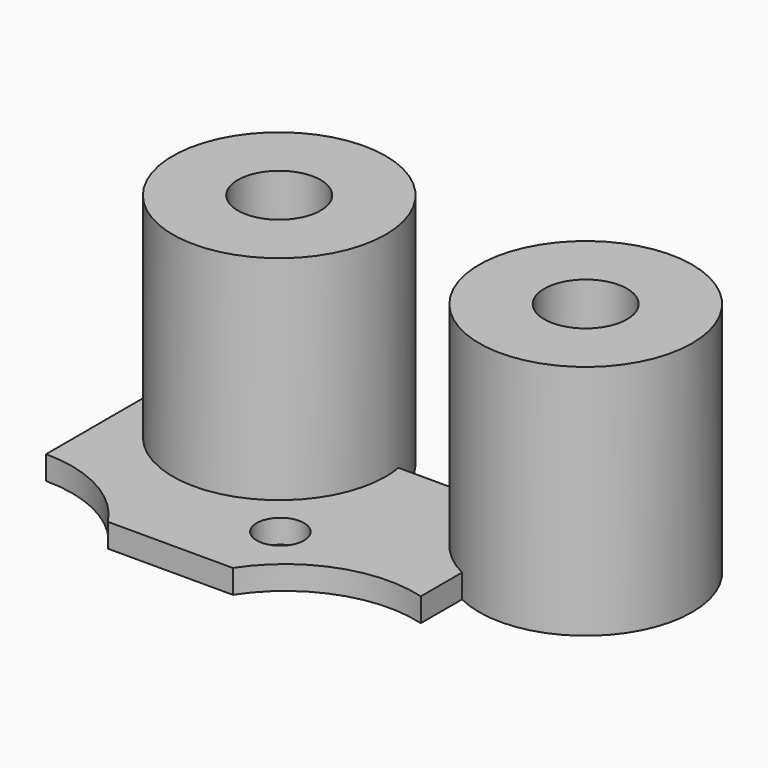
from build123d import *

# Parameters (mm, degrees)
CYLINDER010_R     = 1
CYLINDER010_DEPTH = 10
CYLINDER016_R     = 5.5
CYLINDER016_DEPTH = 10
CYLINDER012_R     = 1.75
CYLINDER012_DEPTH = 10
CYLINDER013_R     = 1.75
CYLINDER013_DEPTH = 10
CYLINDER014_R     = 5.5
CYLINDER014_DEPTH = 10
CYLINDER015_R     = 4.5
CYLINDER015_DEPTH = 10
CYLINDER011_R     = 4.5
CYLINDER011_DEPTH = 10
BOX001_W          = 16
BOX001_H          = 9
BOX001_DEPTH      = 1


with BuildPart() as cylinder010:
    # Cylinder010 → Cylinder010 (new body)
    with BuildSketch(Plane(origin=(9, 6, 0), x_dir=(1, 0, 0), z_dir=(0, 0, 1))):
        Circle(CYLINDER010_R)
    extrude(amount=CYLINDER010_DEPTH)


with BuildPart() as cylinder016:
    # Cylinder016 → Cylinder016 (new body)
    with BuildSketch(Plane(origin=(14, 0, 0), x_dir=(1, 0, 0), z_dir=(0, 0, 1))):
        Circle(CYLINDER016_R)
    extrude(amount=CYLINDER016_DEPTH)


with BuildPart() as cylinder012:
    # Cylinder012 → Cylinder012 (new body)
    with BuildSketch(Plane(origin=(17.5, 11.5, 0), x_dir=(1, 0, 0), z_dir=(0, 0, 1))):
        Circle(CYLINDER012_R)
    extrude(amount=CYLINDER012_DEPTH)


with BuildPart() as cylinder013:
    # Cylinder013 → Cylinder013 (new body)
    with BuildSketch(Plane(origin=(4.75, 11.25, 0), x_dir=(1, 0, 0), z_dir=(0, 0, 1))):
        Circle(CYLINDER013_R)
    extrude(amount=CYLINDER013_DEPTH)


with BuildPart() as fusion003:
    # Cylinder014 → Cylinder014 (new body)
    with BuildSketch(Plane(origin=(-0.5, 0, 0), x_dir=(1, 0, 0), z_dir=(0, 0, 1))):
        Circle(CYLINDER014_R)
    extrude(amount=CYLINDER014_DEPTH)

    # Fusion003: union Cylinder010, Cylinder016, Cylinder012, Cylinder013
    add(cylinder010.part)
    add(cylinder016.part)
    add(cylinder012.part)
    add(cylinder013.part)


with BuildPart() as cylinder015:
    # Cylinder015 → Cylinder015 (new body)
    with BuildSketch(Plane(origin=(17.5, 11.5, 0), x_dir=(1, 0, 0), z_dir=(0, 0, 1))):
        Circle(CYLINDER015_R)
    extrude(amount=CYLINDER015_DEPTH)


with BuildPart() as cylinder011:
    # Cylinder011 → Cylinder011 (new body)
    with BuildSketch(Plane(origin=(4.75, 11.25, 0), x_dir=(1, 0, 0), z_dir=(0, 0, 1))):
        Circle(CYLINDER011_R)
    extrude(amount=CYLINDER011_DEPTH)


with BuildPart() as cut004_button_template:
    # Box001 → Box001 (new body)
    with BuildSketch(Plane(origin=(-0.5, 3, 0), x_dir=(1, 0, 0), z_dir=(0, 0, 1))):
        with Locations((8, 4.5)):
            Rectangle(BOX001_W, BOX001_H)
    extrude(amount=BOX001_DEPTH)

    # Fusion004: union Cylinder015, Cylinder011
    add(cylinder015.part)
    add(cylinder011.part)

    # Cut004: cut Fusion003
    add(fusion003.part, mode=Mode.SUBTRACT)


with BuildPart() as cut004_button_template_1:
    # Cut004 placement: moved
    add(cut004_button_template.part.moved(Location((30, 0, 0))))


solid = cut004_button_template_1.part
